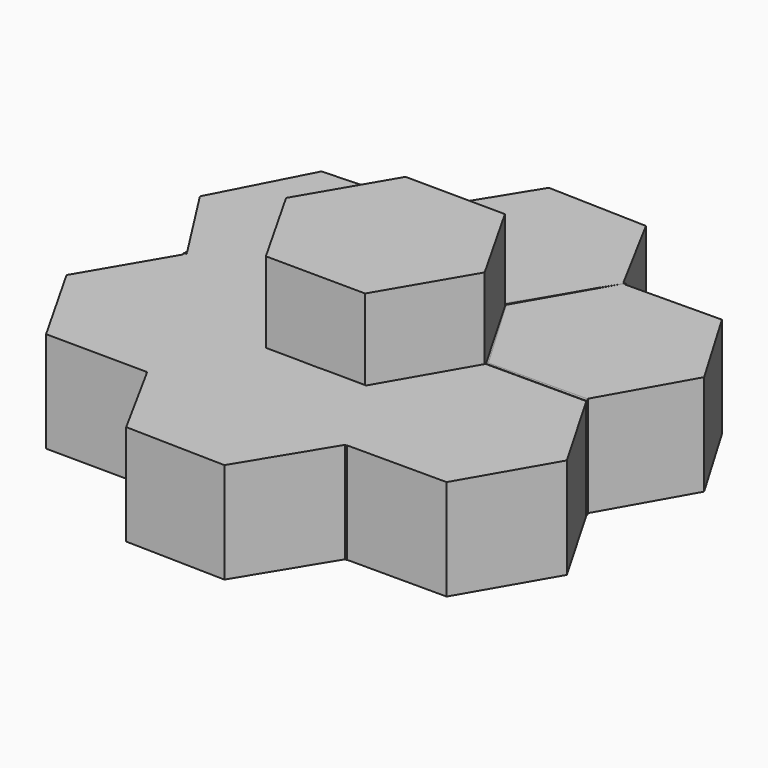
from build123d import *

# Parameters (mm, degrees)
F1_DEPTH = 25
F3_DEPTH = 45
F5_DEPTH = 25


with BuildPart() as f1:
    # F0 (on Top) → F1 (new body)
    with BuildSketch(Plane.XY):
        Polygon((-24.9015906488, -43.3012701892), (24.9015906488, -43.3012701892), (24.920755634, -43.2667499076), (13.4884686604, -23.4654480227), (12.2024788915, -21.3219676951), (-12.8043784561, -21.7417962361), (-15.6788632745, -26.6891443595), align=None)
    extrude(amount=F1_DEPTH)

    # F2 (on Top) → F3 (join)
    with BuildSketch(Plane.XY):
        Polygon((24.7769024833, -0.186750258), (12.5501817092, 21.3640518486), (-12.2267207741, 21.5508021066), (-24.7769024833, 0.186750258), (-12.5501817092, -21.3640518486), (12.2267207741, -21.5508021066), align=None)
    extrude(amount=F3_DEPTH)


with BuildPart() as f1b:
    # F0 (on Top) → F1, piece 2 (new body)
    with BuildSketch(Plane.XY):
        Polygon((-25.1648577894, -43.0157281219), (-15.6788632745, -26.6891443595), (-12.9333948717, -21.7439622329), (-12.8043784561, -21.7417962361), (-12.7908121471, -21.7184469206), (-25.0866793096, -0.2857566201), (-49.7958671625, -0.2179447942), (-49.8351422106, -0.2855420673), align=None)
    extrude(amount=F1_DEPTH)


with BuildPart() as f1c:
    # F0 (on Top) → F1, piece 3 (new body)
    with BuildSketch(Plane.XY):
        Polygon((-12.8239028156, 21.6506350946), (-25.1619514078, 43.0207621226), (-49.8380485922, 0.2805080666), (-25.1619514078, 0.2805080666), align=None)
    extrude(amount=F1_DEPTH)


with BuildPart() as f1d:
    # F0 (on Top) → F1, piece 4 (new body)
    with BuildSketch(Plane.XY):
        Polygon((24.7235831244, 43.2101708227), (24.6714334975, 43.3012701892), (-24.6714334975, 43.3012701892), (-12.4406859279, 21.9355688142), (12.2828971965, 21.8444694476), align=None)
    extrude(amount=F1_DEPTH)


with BuildPart() as f1e:
    # F0 (on Top) → F1, piece 5 (new body)
    with BuildSketch(Plane.XY):
        Polygon((24.9703429639, 0.0513674933), (49.9703429639, 0.0513674933), (25, 43.3012701892), (24.9406859279, 43.3012701892), (12.4406859279, 21.6506350946), (24.9406859279, 0), align=None)
    extrude(amount=F1_DEPTH)


with BuildPart() as f1f:
    # F0 (on Top) → F1, piece 6 (new body)
    with BuildSketch(Plane.XY):
        Polygon((25, -43.3012701892), (49.9703429639, -0.0513674933), (24.9703429639, -0.0513674933), (24.9406859279, 0), (12.4406859279, -21.6506350946), (13.4884686604, -23.4654480227), (25.1358737632, -42.8792756513), (24.920755634, -43.2667499076), (24.9406859279, -43.3012701892), align=None)
    extrude(amount=F1_DEPTH)


with BuildPart() as f5:
    # F4 (on Top) → F5 (new body)
    with BuildSketch(Plane.XY):
        Polygon((49.041816591, 43.050640718), (24.6702112422, 42.8253904077), (12.6794810587, 21.6063358895), (25.0603562239, 0.6125316815), (49.4319615728, 0.8377819918), (61.4226917563, 22.05683651), align=None)
    extrude(amount=F5_DEPTH)


with BuildPart() as f5b:
    # F4 (on Top) → F5, piece 2 (new body)
    with BuildSketch(Plane.XY):
        Polygon((12.978086952, 64.5616455046), (-11.6921242902, 65.3040963936), (-24.6702112422, 44.3102921857), (-10.7934787484, 22.6254111641), (-10.8532145767, 22.5100889787), (11.6921242902, 21.8315861997), (24.6702112422, 42.8253904077), align=None)
        Polygon((-10.7934787484, 22.6254111641), (-24.6702112422, 44.3102921857), (-12.978086952, 22.5740370887), (-10.8532145767, 22.5100889787), align=None)
        Polygon((-12.978086952, 22.5740370887), (-24.6702112422, 44.3102921857), (-50.3882353318, 43.1351298353), (-62.2295269276, 20.2750864634), (-49.154966171, -0.1562574819), (-49.0632279674, 0), (-23.9597777086, -0.182724813), (-23.8975541406, -0.2923339958), (-22.6347703442, -0.2346322078), (-10.8532145767, 22.5100889787), align=None)
        Polygon((-48.3527944338, -1.4097945581), (-49.154966171, -0.1562574819), (-61.7731974268, -21.6488632403), (-49.3797166273, -43.4804512936), (-24.2762663685, -43.6631761066), (-24.2116136144, -43.5530532117), (-24.811594837, -42.4558632819), (-11.9536265425, -21.3320169775), (-23.8975541406, -0.2923339958), align=None)
        Polygon((-49.0632279674, 0), (-49.154966171, -0.1562574819), (-48.3527944338, -1.4097945581), (-23.8975541406, -0.2923339958), (-23.9597777086, -0.182724813), align=None)
        Polygon((-11.5662969091, -22.0143128663), (-11.9536265425, -21.3320169775), (-24.811594837, -42.4558632819), (-23.5840465975, -42.4841196815), align=None)
        Polygon((-11.9074308551, -21.2561239142), (-11.9536265425, -21.3320169775), (-11.5662969091, -22.0143128663), (-23.5840465975, -42.4841196815), (24.8067913325, -43.5980073572), (20.6762670877, -36.0444882887), (12.4704453108, -21.8315880533), (12.4761763604, -21.8216615842), align=None)
        Polygon((-23.5840465975, -42.4841196815), (-24.811594837, -42.4558632819), (-24.2116136144, -43.5530532117), align=None)
        Polygon((-23.5840465975, -42.4841196815), (-24.2116136144, -43.5530532117), (-12.904163982, -64.2310667888), (11.9074308551, -64.8065309279), (24.811594837, -43.6067915601), (24.8067913325, -43.5980073572), align=None)
        Polygon((24.9706025286, -0.1806806495), (12.4761763604, -21.8216615842), (12.904163982, -21.8315880533), (20.6762670877, -36.0444882887), (24.9706025286, -43.4824954571), (25.2593387459, -43.4824954571), (49.9709169642, -0.1806806495), align=None)
        Polygon((12.904163982, -21.8315880533), (12.4761763604, -21.8216615842), (12.4704453108, -21.8315880533), (20.6762670877, -36.0444882887), align=None)
        Polygon((20.6762670877, -36.0444882887), (24.8067913325, -43.5980073572), (25.188405163, -43.6067915601), (25.2593387459, -43.4824954571), (24.9706025286, -43.4824954571), align=None)
        Polygon((62.4710741819, -21.8315880533), (49.9709169642, -0.1806806495), (25.2593387459, -43.4824954571), (49.9709169642, -43.4824954571), align=None)
    extrude(amount=F5_DEPTH)


solid = Compound([f1.part, f1b.part, f1c.part, f1d.part, f1e.part, f1f.part, f5.part, f5b.part])
